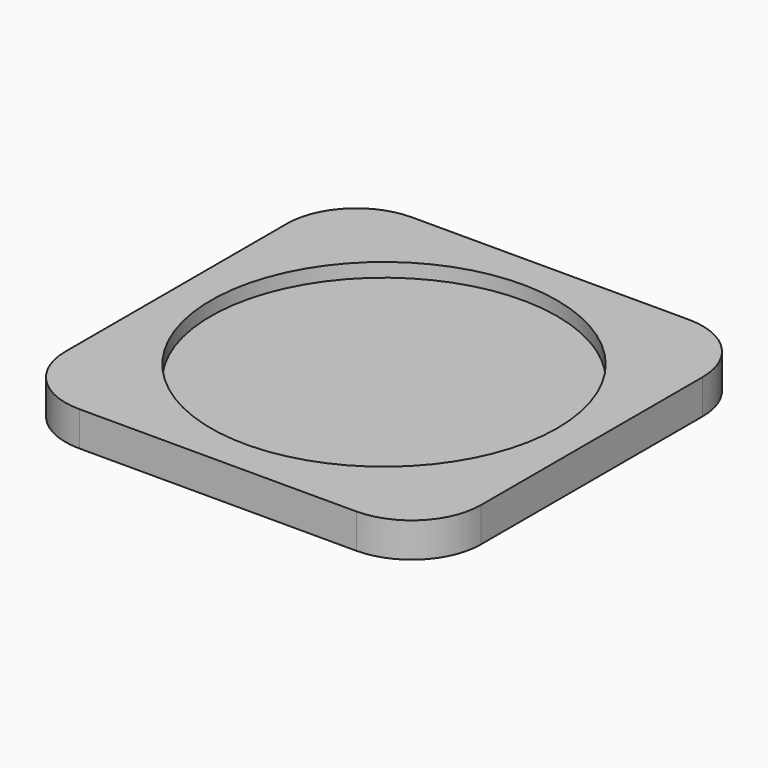
from build123d import *

# Parameters (mm, degrees)
F0_W     = 60
F0_H     = 60
F1_DEPTH = 5
F2_R     = 10
F3_R     = 25
F4_DEPTH = 2


with BuildPart() as f1:
    # F0 (on Top) → F1 (new body)
    with BuildSketch(Plane.XY):
        Rectangle(F0_W, F0_H)
    extrude(amount=F1_DEPTH)

    # F2
    f2_edges = [f1.edges().sort_by_distance(p)[0] for p in [
        (30, -30, 2.5),
        (30, 30, 2.5),
        (-30, -30, 2.5),
        (-30, 30, 2.5),
    ]]
    fillet(f2_edges, radius=F2_R)

    # F3 (on face) → F4 (cut)
    with BuildSketch(Plane.XY.offset(5)):
        Circle(F3_R)
    extrude(amount=-F4_DEPTH, mode=Mode.SUBTRACT)


solid = f1.part
